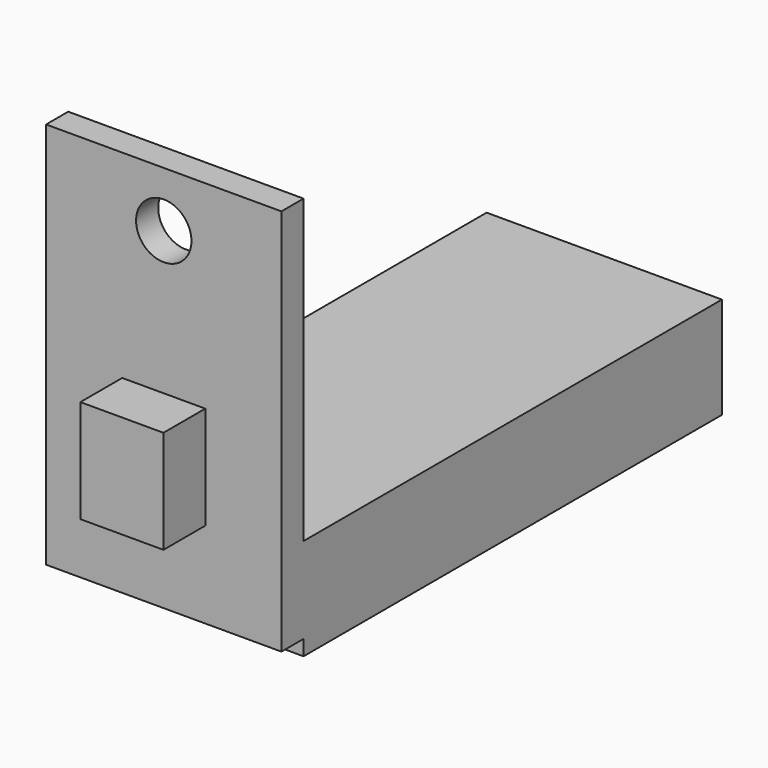
from build123d import *

# Parameters (mm, degrees)
F0_W     = 7.65
F0_H     = 12.6
F0_R     = 0.9
F1_DEPTH = 0.9
F2_W     = 7.65
F2_H     = 3.3
F3_DEPTH = 17
F4_W     = 2.7
F4_H     = 3.35
F5_DEPTH = 1.7


with BuildPart() as f1:
    # F0 (on Front) → F1 (new body)
    with BuildSketch(Plane.XZ):
        with Locations((0, -4.5)):
            Rectangle(F0_W, F0_H)
        Circle(F0_R, mode=Mode.SUBTRACT)
    extrude(amount=F1_DEPTH)

    # F2 (on face) → F3 (join)
    with BuildSketch(Plane(origin=(0, 0, 0), x_dir=(-1, 0, 0), z_dir=(0, 1, 0))):
        with Locations((0, -9.65)):
            Rectangle(F2_W, F2_H)
    extrude(amount=F3_DEPTH)

    # F4 (on face) → F5 (join)
    with BuildSketch(Plane.XZ.offset(0.9)):
        with Locations((0, -6.325)):
            Rectangle(F4_W, F4_H)
    extrude(amount=F5_DEPTH)


solid = f1.part
